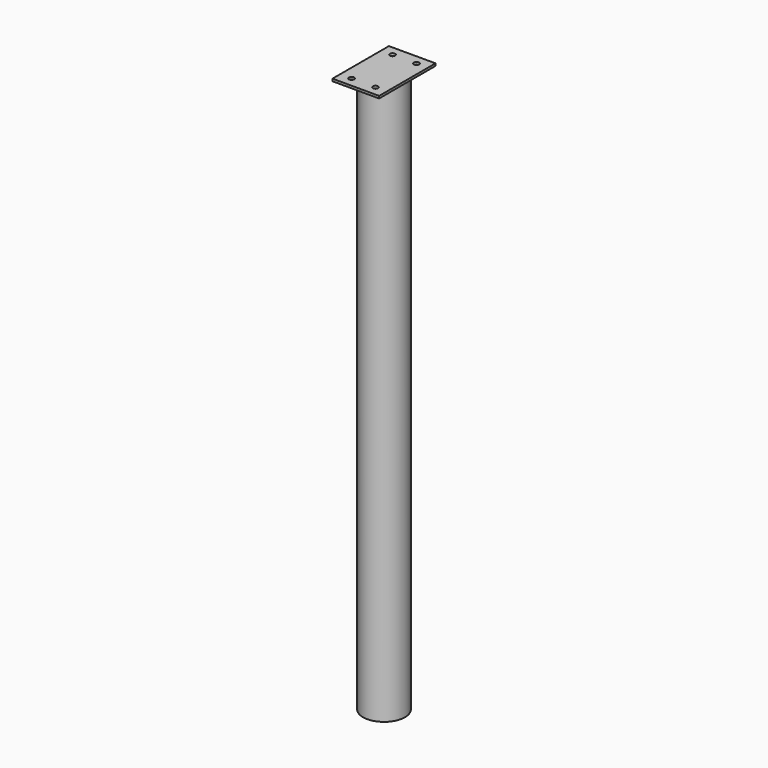
from build123d import *

# Parameters (mm, degrees)
F0_R     = 57.15
F0_R_2   = 50.8
F1_DEPTH = 1524
F2_W     = 127
F2_H     = 191.943108
F2_R     = 7.14375
F3_DEPTH = 6.35


with BuildPart() as f1:
    # F0 (on Top) → F1 (new body)
    with BuildSketch(Plane.XY):
        Circle(F0_R)
        Circle(F0_R_2, mode=Mode.SUBTRACT)
    extrude(amount=F1_DEPTH)

    # F2 (on face) → F3 (join)
    with BuildSketch(Plane.XY.offset(1524)):
        Rectangle(F2_W, F2_H)
        with Locations((-32.54375, -69.777804)):
            Circle(F2_R, mode=Mode.SUBTRACT)
        with Locations((32.54375, -69.777804)):
            Circle(F2_R, mode=Mode.SUBTRACT)
        with Locations((-32.54375, 69.777804)):
            Circle(F2_R, mode=Mode.SUBTRACT)
        with Locations((32.54375, 69.777804)):
            Circle(F2_R, mode=Mode.SUBTRACT)
    extrude(amount=F3_DEPTH)


solid = f1.part
